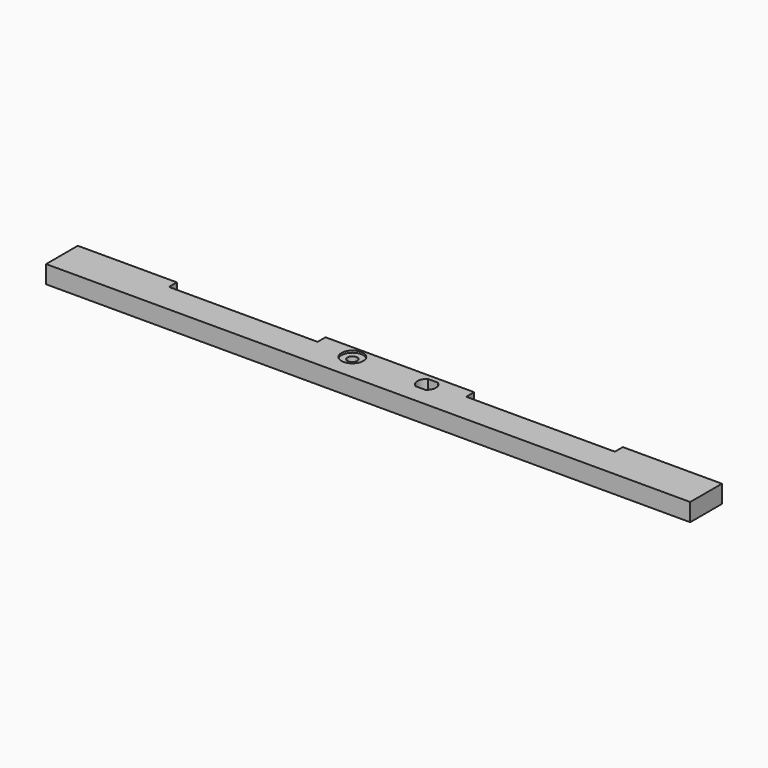
from build123d import *

# Parameters (mm, degrees)
PAD_DEPTH          = 18
SKETCH001_R        = 11
SKETCH001_R_2      = 4.9
POCKET_DEPTH       = 2
POCKET001_DEPTH    = 20
POCKET001_FACE30_R = 4.9
POCKET002_DEPTH    = 20


with BuildPart() as part:
    # Sketch → Pad (new body)
    with BuildSketch(Plane.XY):
        Polygon((0, 0), (-325, 0), (-325, 40), (-225, 40), (-225, 30), (-75, 30), (-75, 40), (0, 40), align=None)
    pad = extrude(amount=PAD_DEPTH)

    # Mirrored: Pad across Sketch V_Axis
    add(pad.mirror(Plane(origin=(0, 0, 0), x_dir=(0, 0, 1), z_dir=(1, 0, 0))))

    # Sketch001 (on DatumPlane) → Pocket (cut)
    with BuildSketch(Plane.XY.offset(18)):
        with Locations((-37.5, 27)):
            Circle(SKETCH001_R)
        with Locations((-37.5, 27)):
            Circle(SKETCH001_R_2, mode=Mode.SUBTRACT)
        with BuildLine():
            ThreePointArc((32.592862, 34.9), (28.2, 27), (32.592862, 19.1))
            Line((32.592862, 19.1), (42.407138, 19.1))
            ThreePointArc((42.407138, 19.1), (46.8, 27), (42.407138, 34.9))
            Line((32.592862, 34.9), (42.407138, 34.9))
        make_face()
    extrude(amount=-POCKET_DEPTH, mode=Mode.SUBTRACT)

    # Pocket Face25 → Pocket001 (cut)
    with BuildSketch(Plane(origin=(37.5, 27, 16), x_dir=(0, 1, 0), z_dir=(0, 0, 1))):
        with BuildLine():
            ThreePointArc((7.9, 4.907138), (0, 9.3), (-7.9, 4.907138))
            Line((-7.9, 4.907138), (-7.9, -4.907138))
            ThreePointArc((-7.9, -4.907138), (0, -9.3), (7.9, -4.907138))
            Line((7.9, -4.907138), (7.9, 4.907138))
        make_face()
    extrude(amount=-POCKET001_DEPTH, mode=Mode.SUBTRACT)

    # Pocket001 Face30 → Pocket002 (cut)
    with BuildSketch(Plane(origin=(-37.5, 27, 18), x_dir=(0, 1, 0), z_dir=(0, 0, 1))):
        Circle(POCKET001_FACE30_R)
    extrude(amount=-POCKET002_DEPTH, mode=Mode.SUBTRACT)


solid = part.part
